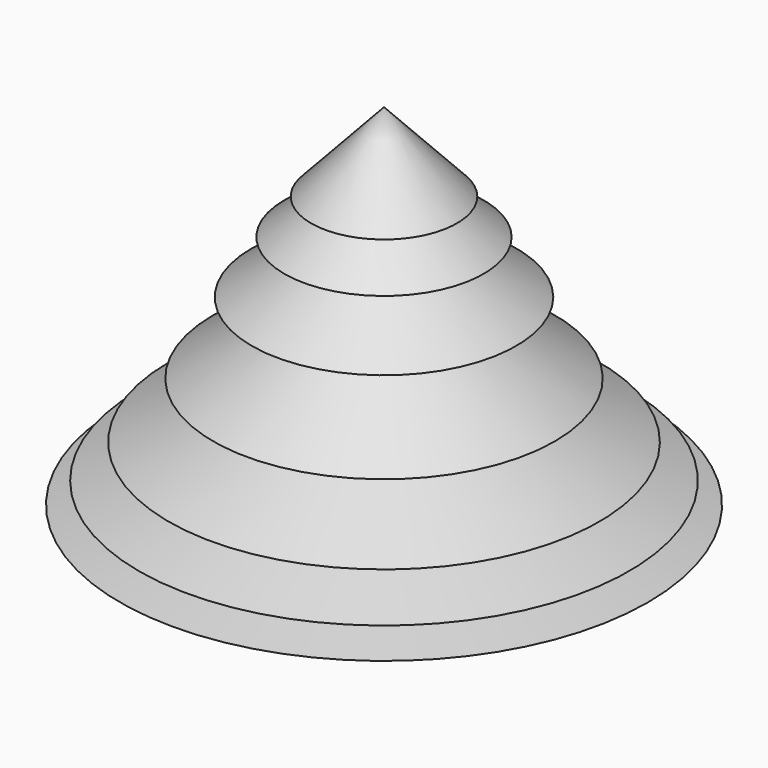
from build123d import *


with BuildPart() as f1:
    # F0 (on Front) → F1 (revolve)
    with BuildSketch(Plane.XZ):
        Polygon((-18.378321, 12.543931), (0, 17.401084), (0, 24.863643), align=None)
        Polygon((-14.224454, 20.231253), (0, 24.863643), (0, 29.766465), align=None)
        Polygon((-7.840419, 29.766465), (0, 34.57471), (0, 38.228185), align=None)
        Polygon((-10.724778, 25.921121), (0, 29.766465), (0, 34.57471), align=None)
        Polygon((-23.178546, 6.501715), (0, 11.355646), (0, 17.401084), align=None)
        Polygon((-26.369773, 2.849298), (0, 6.501715), (0, 11.355646), align=None)
        Polygon((-28.400787, 0.55417), (0, 0), (0, 6.501715), align=None)
    revolve(axis=Axis((0, 0, 19.114093), (0, 0, 1)))


solid = f1.part
